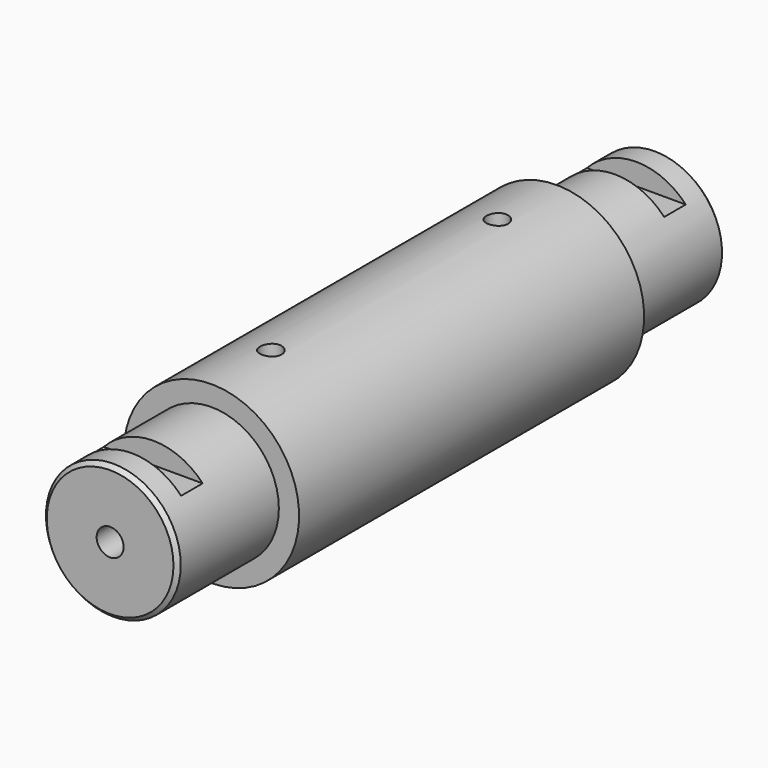
from build123d import *

# Parameters (mm, degrees)
F0_R      = 25
F1_DEPTH  = 47
F2_R      = 32.5
F3_DEPTH  = 160
F4_R      = 25
F5_DEPTH  = 47
F7_W      = 60.588232
F7_H      = 10
F8_DEPTH  = 25
F9_W      = 55.500018
F9_H      = 10
F10_DEPTH = 25
F11_R     = 4
F12_DEPTH = 25
F13_R     = 4
F14_DEPTH = 92
F15_R     = 5
F16_DEPTH = 18.5
F17_SIZE  = 1.5


with BuildPart() as f1:
    # F0 (on Front) → F1 (new body)
    with BuildSketch(Plane.XZ):
        Circle(F0_R)
    extrude(amount=-F1_DEPTH)

    # F2 (on face) → F3 (join)
    with BuildSketch(Plane(origin=(0, 47, 0), x_dir=(-1, 0, 0), z_dir=(0, 1, 0))):
        Circle(F2_R)
    extrude(amount=F3_DEPTH)

    # F4 (on face) → F5 (join)
    with BuildSketch(Plane(origin=(0, 207, 0), x_dir=(-1, 0, 0), z_dir=(0, 1, 0))):
        Circle(F4_R)
    extrude(amount=F5_DEPTH)

    # F7 (on offset) → F8 (cut)
    with BuildSketch(Plane.XY.offset(17)):
        with Locations((8.858869, 15)):
            Rectangle(F7_W, F7_H)
    extrude(amount=F8_DEPTH, mode=Mode.SUBTRACT)

    # F9 (on offset) → F10 (cut)
    with BuildSketch(Plane.XY.offset(17)):
        with Locations((1.929622, 239)):
            Rectangle(F9_W, F9_H)
    extrude(amount=F10_DEPTH, mode=Mode.SUBTRACT)

    # F11 (on Front) → F12 (cut)
    with BuildSketch(Plane.XZ):
        Circle(F11_R)
    extrude(amount=-F12_DEPTH, mode=Mode.SUBTRACT)

    # F13 (on Top) → F14 (cut)
    with BuildSketch(Plane.XY):
        with Locations((0, 74.5)):
            Circle(F13_R)
        with Locations((0, 179.5)):
            Circle(F13_R)
    extrude(amount=F14_DEPTH, mode=Mode.SUBTRACT)

    # F15 (on Front) → F16 (cut)
    with BuildSketch(Plane.XZ):
        Circle(F15_R)
    extrude(amount=-F16_DEPTH, mode=Mode.SUBTRACT)

    # F17
    f17_edges = [f1.edges().sort_by_distance(p)[0] for p in [
        (-25, 0, 0),
        (25, 254, 0),
    ]]
    chamfer(f17_edges, length=F17_SIZE)


solid = f1.part
